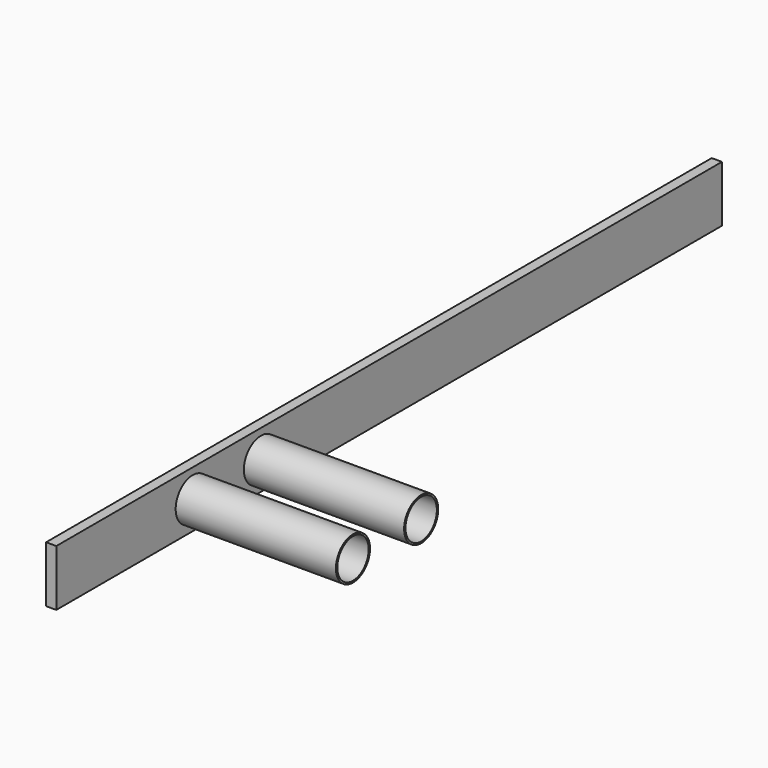
from build123d import *

# Parameters (mm, degrees)
F0_W     = 976
F0_H     = 66
F0_R     = 25
F1_DEPTH = 12
F0_R_2   = 22.999999
F2_DEPTH = 200
F0_R_3   = 23
F3_DEPTH = 200


with BuildPart() as f1:
    # F0 (on Right) → F1 (new body)
    with BuildSketch(Plane.YZ):
        with Locations((488, 33)):
            Rectangle(F0_W, F0_H)
        with Locations((200, 33)):
            Circle(F0_R, mode=Mode.SUBTRACT)
        with Locations((300, 33)):
            Circle(F0_R, mode=Mode.SUBTRACT)
    extrude(amount=F1_DEPTH)

    # F0 (on Right) → F2 (join)
    with BuildSketch(Plane.YZ):
        with Locations((200, 33)):
            Circle(F0_R)
        with Locations((200, 33)):
            Circle(F0_R_2, mode=Mode.SUBTRACT)
    extrude(amount=F2_DEPTH)

    # F0 (on Right) → F3 (join)
    with BuildSketch(Plane.YZ):
        with Locations((300, 33)):
            Circle(F0_R)
        with Locations((300, 33)):
            Circle(F0_R_3, mode=Mode.SUBTRACT)
    extrude(amount=F3_DEPTH)


solid = f1.part
